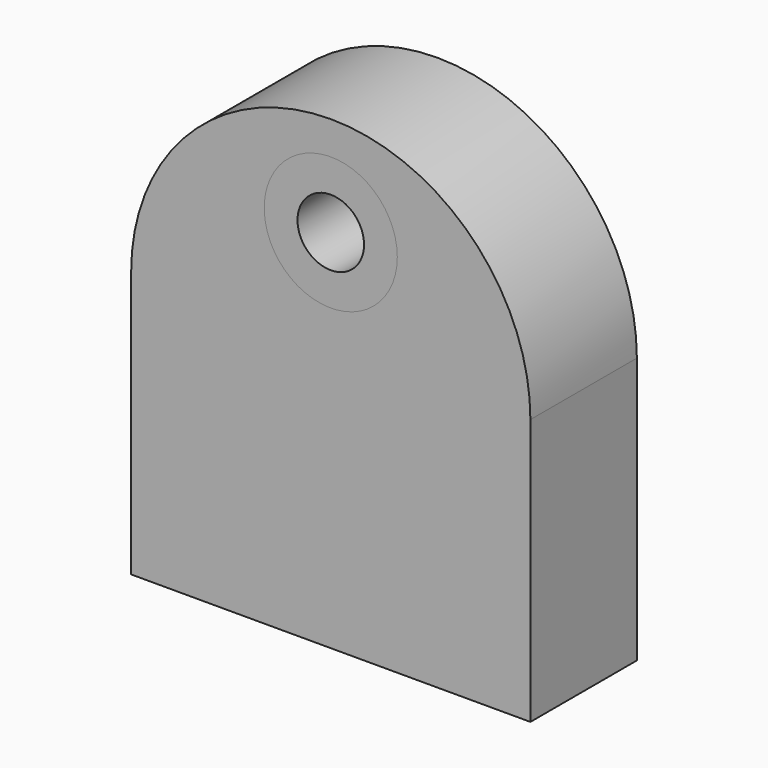
from build123d import *

# Parameters (mm, degrees)
F4_R     = 12.7
F4_W     = 76.2
F4_H     = 50.8
F0_DEPTH = 25.4
F4_R_2   = 6.35
F1_DEPTH = 25.4
F3_D     = 12.7
F3_DEPTH = 50.801


with BuildPart() as f0:
    # F4 (on Front) → F0 (new body)
    with BuildSketch(Plane.XZ):
        with BuildLine():
            Line((-38.1, 0), (38.1, 0))
            ThreePointArc((38.1, 0), (0, 38.1), (-38.1, 0))
        make_face()
        with Locations((0, 19.05)):
            Circle(F4_R, mode=Mode.SUBTRACT)
        with Locations((0, -25.4)):
            Rectangle(F4_W, F4_H)
    extrude(amount=F0_DEPTH)

    # F3 (through all, one way)
    with BuildSketch(Plane.XY):
        with Locations((-25.4, -12.7), (25.4, -12.7)):
            Circle(F3_D / 2)
    extrude(amount=-F3_DEPTH, mode=Mode.SUBTRACT)


with BuildPart() as f1:
    # F4 (on Front) → F1 (new body)
    with BuildSketch(Plane.XZ):
        with Locations((0, 19.05)):
            Circle(F4_R)
        with Locations((0, 19.05)):
            Circle(F4_R_2, mode=Mode.SUBTRACT)
    extrude(amount=F1_DEPTH)


solid = Compound([f0.part, f1.part])
